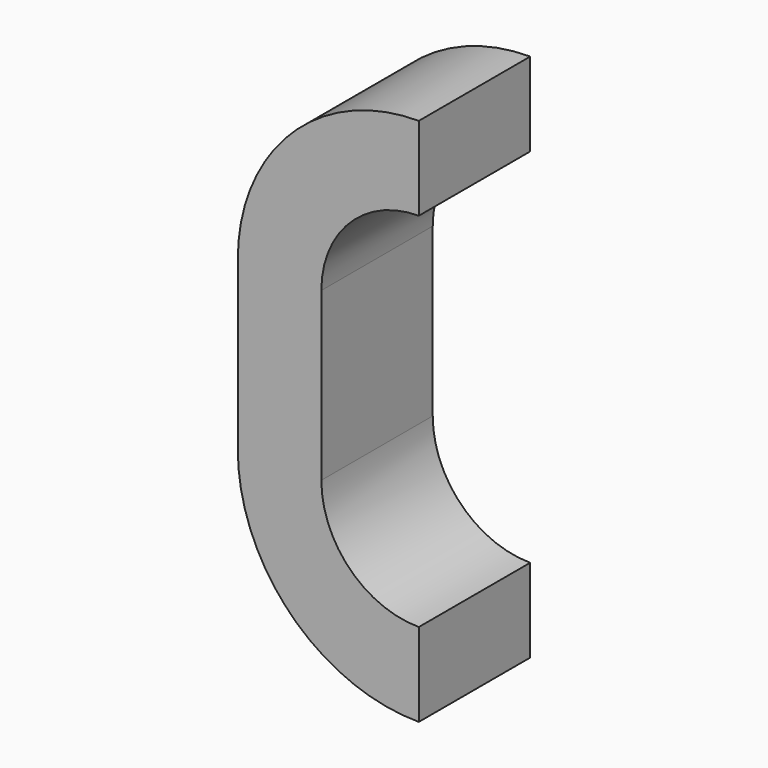
from build123d import *

# Parameters (mm, degrees)
F1_W = 38.1
F1_H = 63.5


with BuildPart() as f2:
    # F2: sweep along a path in F0
    with BuildLine(Plane.XZ) as f2_path:
        Line((-63.5, 0), (-63.5, 38.1))
        ThreePointArc((-63.5, 38.1), (-44.901281, 83.001281), (0, 101.6))
    # F1 (on Top) → F2 (sweep)
    with BuildSketch(Plane.XY):
        with Locations((-63.5, 0)):
            Rectangle(F1_W, F1_H)
    sweep(path=f2_path.line)

    # F3: sweep along a path in F0
    with BuildLine(Plane.XZ) as f3_path:
        Line((-63.5, 0), (-63.5, -38.1))
        ThreePointArc((-63.5, -38.1), (-44.901281, -83.001281), (0, -101.6))
    # F1 (on Top) → F3 (sweep)
    with BuildSketch(Plane.XY):
        with Locations((-63.5, 0)):
            Rectangle(F1_W, F1_H)
    sweep(path=f3_path.line)


solid = f2.part
